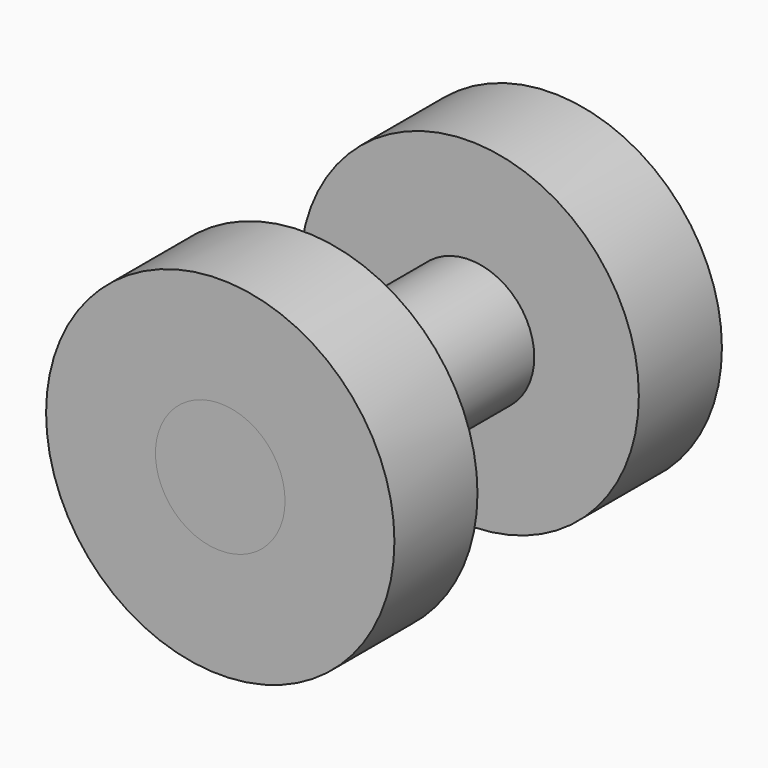
from build123d import *

# Parameters (mm, degrees)
F0_R      = 20.719134
F1_DEPTH  = 12.7
F2_R      = 7.925002
F3_DEPTH  = 25.4
F4_R      = 21.302691
F4_R_2    = 7.925002
F5_DEPTH  = 12.7
F3_FACE_R = 7.925002
F6_DEPTH  = 12.7


with BuildPart() as f1:
    # F0 (on Front) → F1 (new body)
    with BuildSketch(Plane.XZ):
        Circle(F0_R)
    extrude(amount=F1_DEPTH)

    # F2 (on face) → F3 (join)
    with BuildSketch(Plane.XZ.offset(12.7)):
        Circle(F2_R)
    extrude(amount=F3_DEPTH)


with BuildPart() as f5:
    # F4 (on face) → F5 (new body)
    with BuildSketch(Plane.XZ.offset(38.1)):
        Circle(F4_R)
        Circle(F4_R_2, mode=Mode.SUBTRACT)
    extrude(amount=F5_DEPTH)


with BuildPart() as f6:
    # F3_face (on face) → F6 (new body)
    with BuildSketch(Plane.XZ.offset(38.1)):
        Circle(F3_FACE_R)
    extrude(amount=F6_DEPTH)


solid = Compound([f1.part, f5.part, f6.part])
